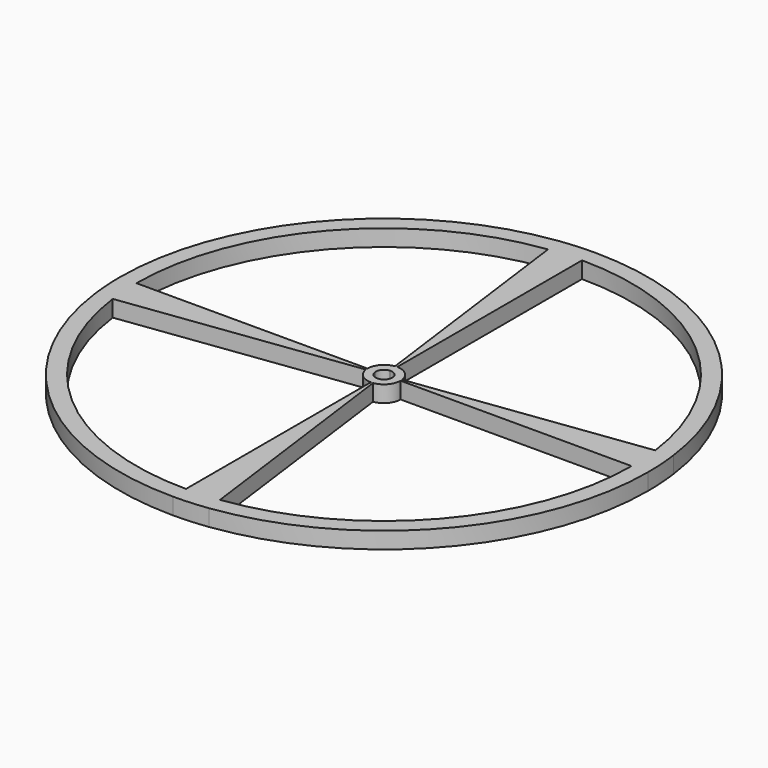
from build123d import *

# Parameters (mm, degrees)
F1_DEPTH = 3.175


with BuildPart() as f1:
    # F0 (on Top) → F1 (new body)
    with BuildSketch(Plane.XY):
        with BuildLine():
            Line((-50.8, 0), (-47.625, 0))
            ThreePointArc((-47.625, 0), (-35.8063708312, 31.4013444441), (-6.2163099045, 47.2175615229))
            Line((-6.2163099045, 47.2175615229), (-6.6307305648, 50.3653989578))
            ThreePointArc((-6.6307305648, 50.3653989578), (-38.1934622199, 33.4947674071), (-50.8, 0))
        make_face()
        with BuildLine():
            ThreePointArc((-47.2175615229, -6.2163099045), (-47.5230312192, -3.1148240296), (-47.625, 0))
            Line((-47.625, 0), (-50.8, 0))
            ThreePointArc((-50.8, 0), (-50.6912333005, -3.3224789649), (-50.3653989578, -6.6307305648))
            Line((-50.3653989578, -6.6307305648), (-47.2175615229, -6.2163099045))
        make_face()
        with BuildLine():
            Line((0, -50.8), (0, -47.625))
            ThreePointArc((0, -47.625), (-31.4013444441, -35.8063708312), (-47.2175615229, -6.2163099045))
            Line((-47.2175615229, -6.2163099045), (-50.3653989578, -6.6307305648))
            ThreePointArc((-50.3653989578, -6.6307305648), (-33.4947674071, -38.1934622199), (0, -50.8))
        make_face()
        with BuildLine():
            Line((50.8, 0), (47.625, 0))
            ThreePointArc((47.625, 0), (35.8063708312, -31.4013444441), (6.2163099045, -47.2175615229))
            Line((6.2163099045, -47.2175615229), (6.6307305648, -50.3653989578))
            ThreePointArc((6.6307305648, -50.3653989578), (38.1934622199, -33.4947674071), (50.8, 0))
        make_face()
        with BuildLine():
            ThreePointArc((0, 47.625), (31.4013444441, 35.8063708312), (47.2175615229, 6.2163099045))
            Line((47.2175615229, 6.2163099045), (50.3653989578, 6.6307305648))
            ThreePointArc((50.3653989578, 6.6307305648), (33.4947674071, 38.1934622199), (0, 50.8))
            Line((0, 50.8), (0, 47.625))
        make_face()
        with BuildLine():
            ThreePointArc((-6.2163099045, 47.2175615229), (-3.1148240296, 47.5230312192), (0, 47.625))
            Line((0, 47.625), (0, 50.8))
            ThreePointArc((0, 50.8), (-3.3224789649, 50.6912333005), (-6.6307305648, 50.3653989578))
            Line((-6.6307305648, 50.3653989578), (-6.2163099045, 47.2175615229))
        make_face()
        with BuildLine():
            ThreePointArc((47.2175615229, 6.2163099045), (47.5230312192, 3.1148240296), (47.625, 0))
            Line((47.625, 0), (50.8, 0))
            ThreePointArc((50.8, 0), (50.6912333005, 3.3224789649), (50.3653989578, 6.6307305648))
            Line((50.3653989578, 6.6307305648), (47.2175615229, 6.2163099045))
        make_face()
        with BuildLine():
            Line((6.6307305648, -50.3653989578), (6.2163099045, -47.2175615229))
            ThreePointArc((6.2163099045, -47.2175615229), (3.1148240296, -47.5230312192), (0, -47.625))
            Line((0, -47.625), (0, -50.8))
            ThreePointArc((0, -50.8), (3.3224789649, -50.6912333005), (6.6307305648, -50.3653989578))
        make_face()
        with BuildLine():
            Line((-3.175, 0), (-1.5875, 0))
            ThreePointArc((-1.5875, 0), (-1.1935456944, 1.0467114815), (-0.2072103301, 1.5739187174))
            Line((-0.2072103301, 1.5739187174), (-0.4144206603, 3.1478374349))
            ThreePointArc((-0.4144206603, 3.1478374349), (-2.3870913887, 2.0934229629), (-3.175, 0))
        make_face()
        with BuildLine():
            ThreePointArc((-1.5739187174, -0.2072103301), (-1.5841010406, -0.1038274677), (-1.5875, 0))
            Line((-1.5875, 0), (-3.175, 0))
            ThreePointArc((-3.175, 0), (-3.1682020813, -0.2076549353), (-3.1478374349, -0.4144206603))
            Line((-3.1478374349, -0.4144206603), (-1.5739187174, -0.2072103301))
        make_face()
        with BuildLine():
            Line((0, -3.175), (0, -1.5875))
            ThreePointArc((0, -1.5875), (-1.0467114815, -1.1935456944), (-1.5739187174, -0.2072103301))
            Line((-1.5739187174, -0.2072103301), (-3.1478374349, -0.4144206603))
            ThreePointArc((-3.1478374349, -0.4144206603), (-2.0934229629, -2.3870913887), (0, -3.175))
        make_face()
        with BuildLine():
            Line((0.4144206603, -3.1478374349), (0.2072103301, -1.5739187174))
            ThreePointArc((0.2072103301, -1.5739187174), (0.1038274677, -1.5841010406), (0, -1.5875))
            Line((0, -1.5875), (0, -3.175))
            ThreePointArc((0, -3.175), (0.2076549353, -3.1682020813), (0.4144206603, -3.1478374349))
        make_face()
        with BuildLine():
            Line((3.175, 0), (1.5875, 0))
            ThreePointArc((1.5875, 0), (1.1935456944, -1.0467114815), (0.2072103301, -1.5739187174))
            Line((0.2072103301, -1.5739187174), (0.4144206603, -3.1478374349))
            ThreePointArc((0.4144206603, -3.1478374349), (2.3870913887, -2.0934229629), (3.175, 0))
        make_face()
        with BuildLine():
            ThreePointArc((1.5739187174, 0.2072103301), (1.5841010406, 0.1038274677), (1.5875, 0))
            Line((1.5875, 0), (3.175, 0))
            ThreePointArc((3.175, 0), (3.1682020813, 0.2076549353), (3.1478374349, 0.4144206603))
            Line((3.1478374349, 0.4144206603), (1.5739187174, 0.2072103301))
        make_face()
        with BuildLine():
            ThreePointArc((0, 1.5875), (1.0467114815, 1.1935456944), (1.5739187174, 0.2072103301))
            Line((1.5739187174, 0.2072103301), (3.1478374349, 0.4144206603))
            ThreePointArc((3.1478374349, 0.4144206603), (2.0934229629, 2.3870913887), (0, 3.175))
            Line((0, 3.175), (0, 1.5875))
        make_face()
        with BuildLine():
            ThreePointArc((-0.2072103301, 1.5739187174), (-0.1038274677, 1.5841010406), (0, 1.5875))
            Line((0, 1.5875), (0, 3.175))
            ThreePointArc((0, 3.175), (-0.2076549353, 3.1682020813), (-0.4144206603, 3.1478374349))
            Line((-0.4144206603, 3.1478374349), (-0.2072103301, 1.5739187174))
        make_face()
        with BuildLine():
            ThreePointArc((-0.4144206603, 3.1478374349), (-0.2076549353, 3.1682020813), (0, 3.175))
            Line((0, 3.175), (0, 47.625))
            ThreePointArc((0, 47.625), (-3.1148240296, 47.5230312192), (-6.2163099045, 47.2175615229))
            Line((-6.2163099045, 47.2175615229), (-0.4144206603, 3.1478374349))
        make_face()
        with BuildLine():
            ThreePointArc((-3.1478374349, -0.4144206603), (-3.1682020813, -0.2076549353), (-3.175, 0))
            Line((-3.175, 0), (-47.625, 0))
            ThreePointArc((-47.625, 0), (-47.5230312192, -3.1148240296), (-47.2175615229, -6.2163099045))
            Line((-47.2175615229, -6.2163099045), (-3.1478374349, -0.4144206603))
        make_face()
        with BuildLine():
            Line((6.2163099045, -47.2175615229), (0.4144206603, -3.1478374349))
            ThreePointArc((0.4144206603, -3.1478374349), (0.2076549353, -3.1682020813), (0, -3.175))
            Line((0, -3.175), (0, -47.625))
            ThreePointArc((0, -47.625), (3.1148240296, -47.5230312192), (6.2163099045, -47.2175615229))
        make_face()
        with BuildLine():
            ThreePointArc((3.1478374349, 0.4144206603), (3.1682020813, 0.2076549353), (3.175, 0))
            Line((3.175, 0), (47.625, 0))
            ThreePointArc((47.625, 0), (47.5230312192, 3.1148240296), (47.2175615229, 6.2163099045))
            Line((47.2175615229, 6.2163099045), (3.1478374349, 0.4144206603))
        make_face()
    extrude(amount=F1_DEPTH)


solid = f1.part
